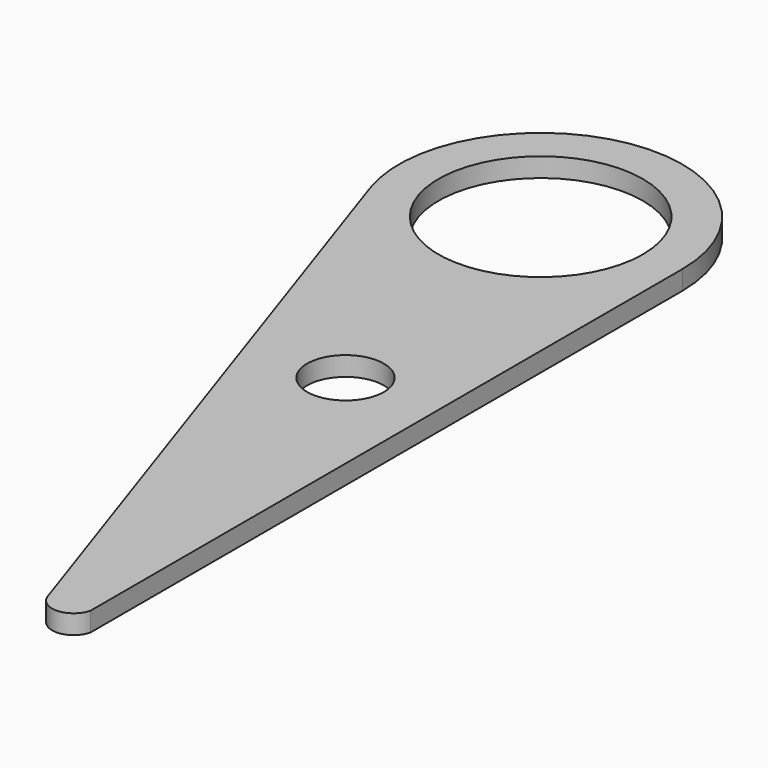
from build123d import *

# Parameters (mm, degrees)
F0_R     = 13.515014
F1_DEPTH = 2.54
F2_R     = 5.08
F3_DEPTH = 12.192


with BuildPart() as f1:
    # F0 (on Top) → F1 (new body)
    with BuildSketch(Plane.XY):
        with BuildLine():
            ThreePointArc((-42.973429, 36.785428), (-22.173248, 24.273337), (-6.4596, 42.774181))
            ThreePointArc((-6.4596, 42.774181), (-28.242016, 61.275024), (-42.973429, 36.785428))
        make_face()
        with Locations((-25.207632, 42.774181)):
            Circle(F0_R, mode=Mode.SUBTRACT)
        with BuildLine():
            Line((-6.4596, -55.071786), (-6.4596, 42.774181))
            ThreePointArc((-6.4596, 42.774181), (-22.173248, 24.273337), (-42.973429, 36.785428))
            Line((-42.973429, 36.785428), (-11.929202, -55.308118))
            ThreePointArc((-11.929202, -55.308118), (-9.105606, -57.244995), (-6.4596, -55.071786))
        make_face()
    extrude(amount=F1_DEPTH)

    # F2 (on face) → F3 (cut)
    with BuildSketch(Plane.XY.offset(2.54)):
        with Locations((-18.436039, 2.048449)):
            Circle(F2_R)
    extrude(amount=-F3_DEPTH, mode=Mode.SUBTRACT)


solid = f1.part
